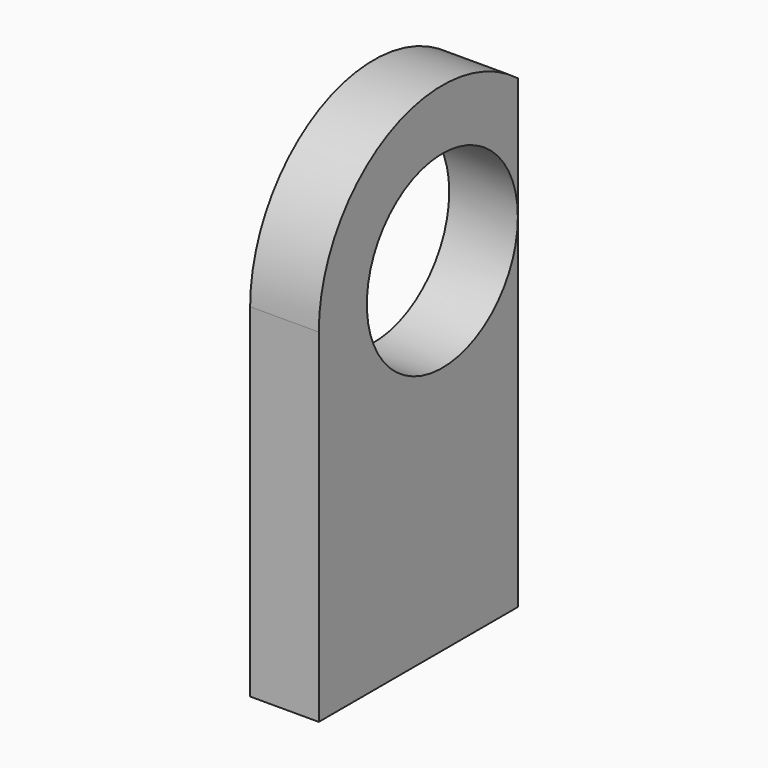
from build123d import *

# Parameters (mm, degrees)
SKETCH099_R      = 2.75
EXTRUDE017_DEPTH = 5
EXTRUDE016_DEPTH = 15
EXTRUDE015_DEPTH = 2


with BuildPart() as extrude017:
    # Sketch099 → Extrude017 (new body)
    with BuildSketch(Plane.YZ.offset(-2)):
        with Locations((2.75, 10)):
            Circle(SKETCH099_R)
    extrude(amount=EXTRUDE017_DEPTH)


with BuildPart() as extrude016:
    # Sketch098 → Extrude016 (new body)
    with BuildSketch(Plane.XY):
        Polygon((0, 5.5), (-1.75, 7.25), (0, 7.25), align=None)
    extrude(amount=EXTRUDE016_DEPTH)


with BuildPart() as cut016:
    # Sketch097 → Extrude015 (new body)
    with BuildSketch(Plane.YZ.offset(-2)):
        with BuildLine():
            Line((-1.75, 0), (7.25, 0))
            Line((7.25, 0), (7.25, 10))
            ThreePointArc((7.25, 10), (2.749999, 14.5), (-1.75, 9.999998))
            Line((-1.75, 0), (-1.75, 9.999998))
        make_face()
    extrude(amount=EXTRUDE015_DEPTH)

    # Cut015: cut Extrude016
    add(extrude016.part, mode=Mode.SUBTRACT)

    # Cut016: cut Extrude017
    add(extrude017.part, mode=Mode.SUBTRACT)


solid = cut016.part
